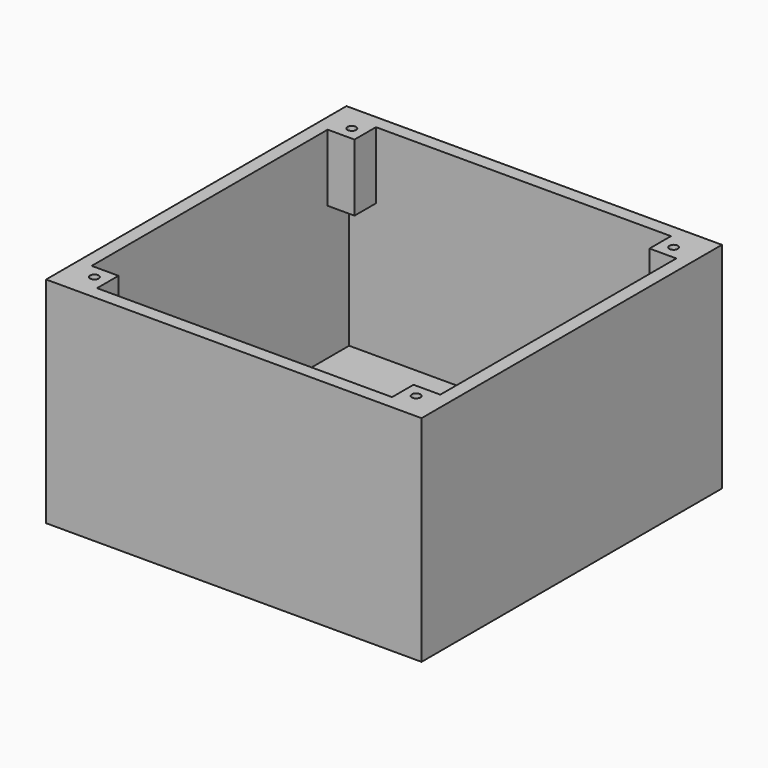
from build123d import *

# Parameters (mm, degrees)
F0_W     = 140
F0_H     = 140
F0_W_2   = 130
F0_H_2   = 130
F1_DEPTH = 80
F2_W     = 140
F2_H     = 140
F3_DEPTH = 5
F4_R     = 1.4
F5_DEPTH = 5
F6_R     = 7.5
F7_DEPTH = 1.5
F8_W     = 10
F8_H     = 10
F8_R     = 1.6
F9_DEPTH = 25


with BuildPart() as f1:
    # F0 (on Top) → F1 (new body)
    with BuildSketch(Plane.XY):
        Rectangle(F0_W, F0_H)
        Rectangle(F0_W_2, F0_H_2, mode=Mode.SUBTRACT)
    extrude(amount=F1_DEPTH)

    # F2 (on face) → F3 (join)
    with BuildSketch(Plane(origin=(0, 0, 0), x_dir=(1, 0, 0), z_dir=(0, 0, -1))):
        Rectangle(F2_W, F2_H)
    extrude(amount=-F3_DEPTH)

    # F4 (on face) → F5 (cut, through all)
    with BuildSketch(Plane.XY.offset(5)):
        with Locations((-1, 13.5)):
            Circle(F4_R)
        with Locations((-28, 13.5)):
            Circle(F4_R)
        with Locations((-1, -13.5)):
            Circle(F4_R)
        with Locations((-28, -13.5)):
            Circle(F4_R)
    extrude(amount=-F5_DEPTH, mode=Mode.SUBTRACT)

    # F6 (on face) → F7 (cut)
    with BuildSketch(Plane(origin=(0, 0, 0), x_dir=(1, 0, 0), z_dir=(0, 0, -1))):
        with Locations((-28, 13.5)):
            Circle(F6_R)
        with Locations((-1, 13.5)):
            Circle(F6_R)
        with Locations((-28, -13.5)):
            Circle(F6_R)
        with Locations((-1, -13.5)):
            Circle(F6_R)
    extrude(amount=-F7_DEPTH, mode=Mode.SUBTRACT)

    # F8 (on face) → F9 (join)
    with BuildSketch(Plane.XY.offset(80)):
        with Locations((-60, 60)):
            Rectangle(F8_W, F8_H)
        with Locations((-60, 60)):
            Circle(F8_R, mode=Mode.SUBTRACT)
        with Locations((60, 60)):
            Rectangle(F8_W, F8_H)
        with Locations((60, 60)):
            Circle(F8_R, mode=Mode.SUBTRACT)
        with Locations((-60, -60)):
            Rectangle(F8_W, F8_H)
        with Locations((-60, -60)):
            Circle(F8_R, mode=Mode.SUBTRACT)
        with Locations((60, -60)):
            Rectangle(F8_W, F8_H)
        with Locations((60, -60)):
            Circle(F8_R, mode=Mode.SUBTRACT)
    extrude(amount=-F9_DEPTH)


solid = f1.part
